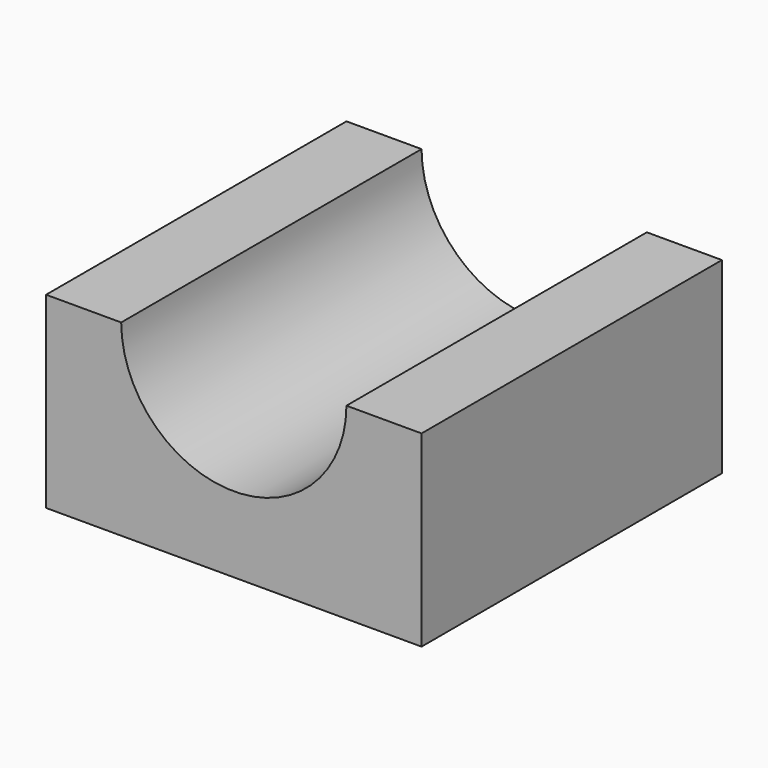
from build123d import *

# Parameters (mm, degrees)
F0_W      = 30
F0_H      = 30
F0_R      = 9
F1_DEPTH  = 30
F1_FACE_W = 30
F1_FACE_H = 30
F2_DEPTH  = 15


with BuildPart() as f1:
    # F0 (on Front) → F1 (new body)
    with BuildSketch(Plane.XZ):
        with Locations((15.186922, 15)):
            Rectangle(F0_W, F0_H)
        with Locations((15.186922, 15.046729)):
            Circle(F0_R, mode=Mode.SUBTRACT)
    extrude(amount=F1_DEPTH)

    # F1_face (on face) → F2 (cut)
    with BuildSketch(Plane(origin=(15.186922, -15, 30), x_dir=(1, 0, 0), z_dir=(0, 0, 1))):
        Rectangle(F1_FACE_W, F1_FACE_H)
    extrude(amount=-F2_DEPTH, mode=Mode.SUBTRACT)


solid = f1.part
